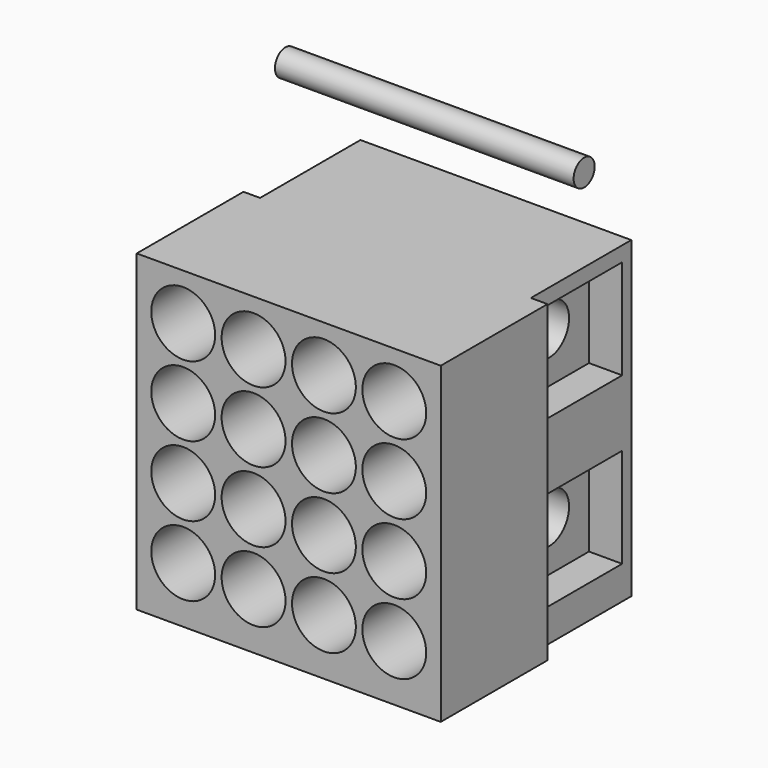
from build123d import *

# Parameters (mm, degrees)
F0_W      = 29.083
F0_H      = 30
F0_R      = 3.055938
F1_DEPTH  = 12.7
F2_W      = 29.083
F2_H      = 30
F3_DEPTH  = 12.065
F4_W      = 12
F4_H      = 30
F5_DEPTH  = 1.5875
F6_W      = 12
F6_H      = 30
F7_DEPTH  = 1.5875
F8_R      = 2.38125
F9_DEPTH  = 27.4965
F10_W     = 9.525
F10_H     = 9.525
F12_DEPTH = 3.175
F11_W     = 9.525
F11_H     = 9.525
F13_DEPTH = 3.175
F14_R     = 1.260545
F15_DEPTH = 28.575


with BuildPart() as f1:
    # F0 (on Front) → F1 (new body)
    with BuildSketch(Plane.XZ):
        with Locations((-14.5415, 15)):
            Rectangle(F0_W, F0_H)
        with Locations((-24.638, 5.362)):
            Circle(F0_R, mode=Mode.SUBTRACT)
        with Locations((-17.907, 5.362)):
            Circle(F0_R, mode=Mode.SUBTRACT)
        with Locations((-24.638, 12.093)):
            Circle(F0_R, mode=Mode.SUBTRACT)
        with Locations((-17.907, 12.093)):
            Circle(F0_R, mode=Mode.SUBTRACT)
        with Locations((-11.176, 5.362)):
            Circle(F0_R, mode=Mode.SUBTRACT)
        with Locations((-4.445, 5.362)):
            Circle(F0_R, mode=Mode.SUBTRACT)
        with Locations((-11.176, 12.093)):
            Circle(F0_R, mode=Mode.SUBTRACT)
        with Locations((-4.445, 12.093)):
            Circle(F0_R, mode=Mode.SUBTRACT)
        with Locations((-24.638, 18.824)):
            Circle(F0_R, mode=Mode.SUBTRACT)
        with Locations((-17.907, 18.824)):
            Circle(F0_R, mode=Mode.SUBTRACT)
        with Locations((-24.638, 25.555)):
            Circle(F0_R, mode=Mode.SUBTRACT)
        with Locations((-17.907, 25.555)):
            Circle(F0_R, mode=Mode.SUBTRACT)
        with Locations((-11.176, 18.824)):
            Circle(F0_R, mode=Mode.SUBTRACT)
        with Locations((-4.445, 18.824)):
            Circle(F0_R, mode=Mode.SUBTRACT)
        with Locations((-11.176, 25.555)):
            Circle(F0_R, mode=Mode.SUBTRACT)
        with Locations((-4.445, 25.555)):
            Circle(F0_R, mode=Mode.SUBTRACT)
    extrude(amount=F1_DEPTH)

    # F2 (on face) → F3 (join)
    with BuildSketch(Plane(origin=(0, 0, 0), x_dir=(-1, 0, 0), z_dir=(0, 1, 0))):
        with Locations((14.5415, 15)):
            Rectangle(F2_W, F2_H)
    extrude(amount=F3_DEPTH)

    # F4 (on face) → F5 (cut)
    with BuildSketch(Plane.YZ):
        with Locations((6.065, 15)):
            Rectangle(F4_W, F4_H)
    extrude(amount=-F5_DEPTH, mode=Mode.SUBTRACT)

    # F6 (on face) → F7 (cut)
    with BuildSketch(Plane(origin=(-29.083, 0, 0), x_dir=(0, -1, 0), z_dir=(-1, 0, 0))):
        with Locations((-6.065, 15)):
            Rectangle(F6_W, F6_H)
    extrude(amount=-F7_DEPTH, mode=Mode.SUBTRACT)

    # F8 (on face) → F9 (cut, through all)
    with BuildSketch(Plane(origin=(-27.4955, 0, 0), x_dir=(0, -1, 0), z_dir=(-1, 0, 0))):
        with Locations((-6.215, 23.8125)):
            Circle(F8_R)
        with Locations((-6.215, 7.9375)):
            Circle(F8_R)
    extrude(amount=-F9_DEPTH, mode=Mode.SUBTRACT)

    # F10 (on face) → F12 (cut)
    with BuildSketch(Plane(origin=(-27.4955, 0, 0), x_dir=(0, -1, 0), z_dir=(-1, 0, 0))):
        with Locations((-6.215, 23.8125)):
            Rectangle(F10_W, F10_H)
        with Locations((-6.215, 7.9375)):
            Rectangle(F10_W, F10_H)
    extrude(amount=-F12_DEPTH, mode=Mode.SUBTRACT)

    # F11 (on face) → F13 (cut)
    with BuildSketch(Plane.YZ.offset(-1.5875)):
        with Locations((6.215, 23.8125)):
            Rectangle(F11_W, F11_H)
        with Locations((6.215, 7.9375)):
            Rectangle(F11_W, F11_H)
    extrude(amount=-F13_DEPTH, mode=Mode.SUBTRACT)


with BuildPart() as f15:
    # F14 (on face) → F15 (new body)
    with BuildSketch(Plane.YZ):
        with Locations((4.447935, 39.295714)):
            Circle(F14_R)
    extrude(amount=-F15_DEPTH)


solid = Compound([f1.part, f15.part])
